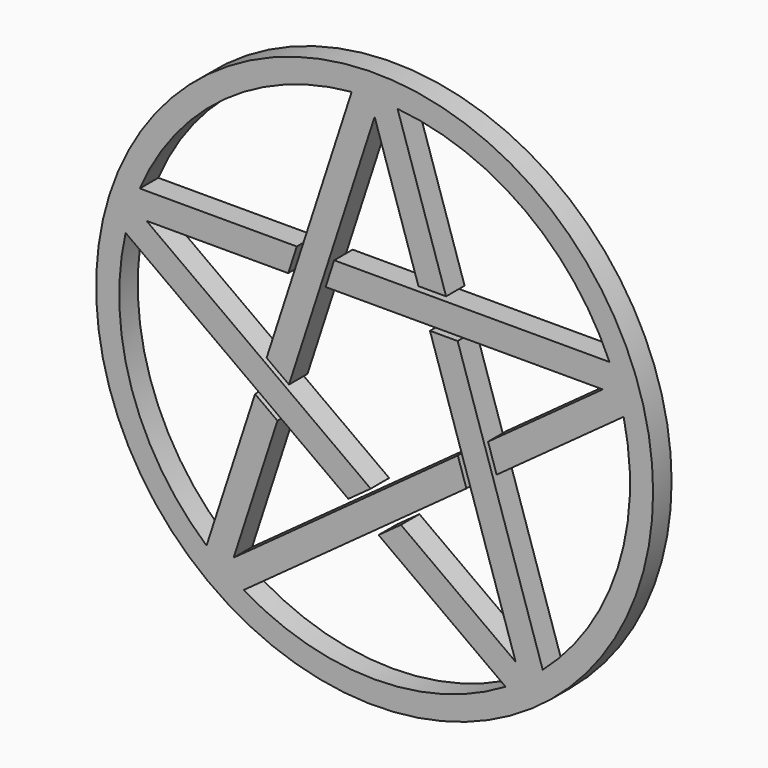
from build123d import *

# Parameters (mm, degrees)
F0_R     = 76.541025
F1_DEPTH = 6.35


with BuildPart() as f1:
    # F0 (on Front) → F1 (new body)
    with BuildSketch(Plane.XZ):
        Circle(F0_R)
        with BuildLine():
            ThreePointArc((-64.53644, 27.601229), (-41.257249, 56.785732), (-6.307472, 69.907051))
            Line((-6.307472, 69.907051), (-29.685655, -2.043597))
            Line((-29.685655, -2.043597), (-23.536186, -6.511448))
            Line((-23.536186, -6.511448), (0, 65.925484))
            Line((0, 65.925484), (12.039657, 28.871229))
            Line((12.039657, 28.871229), (19.640819, 28.871229))
            Line((19.640819, 28.871229), (6.307472, 69.907051))
            ThreePointArc((6.307472, 69.907051), (41.257249, 56.785732), (64.53644, 27.601229))
            Line((64.53644, 27.601229), (-11.116948, 27.601229))
            Line((-11.116948, 27.601229), (-13.465836, 20.372095))
            Line((-13.465836, 20.372095), (62.698861, 20.372095))
            Line((62.698861, 20.372095), (31.17863, -2.528694))
            Line((31.17863, -2.528694), (33.527518, -9.757828))
            Line((33.527518, -9.757828), (68.434673, 15.603704))
            ThreePointArc((68.434673, 15.603704), (66.755632, -21.69022), (46.193186, -52.848553))
            Line((46.193186, -52.848553), (22.815003, 19.102095))
            Line((22.815003, 19.102095), (15.213841, 19.102095))
            Line((15.213841, 19.102095), (38.750027, -53.334837))
            Line((38.750027, -53.334837), (7.229796, -30.434048))
            Line((7.229796, -30.434048), (1.080327, -34.901899))
            Line((1.080327, -34.901899), (35.987481, -60.263432))
            ThreePointArc((35.987481, -60.263432), (0, -70.191025), (-35.987481, -60.263432))
            Line((-35.987481, -60.263432), (25.217396, -15.795485))
            Line((25.217396, -15.795485), (22.868507, -8.566351))
            Line((22.868507, -8.566351), (-38.750027, -53.334837))
            Line((-38.750027, -53.334837), (-26.71037, -16.280582))
            Line((-26.71037, -16.280582), (-32.859839, -11.812731))
            Line((-32.859839, -11.812731), (-46.193186, -52.848553))
            ThreePointArc((-46.193186, -52.848553), (-66.755632, -21.69022), (-68.434673, 15.603704))
            Line((-68.434673, 15.603704), (-7.229796, -28.864242))
            Line((-7.229796, -28.864242), (-1.080327, -24.396391))
            Line((-1.080327, -24.396391), (-62.698861, 20.372095))
            Line((-62.698861, 20.372095), (-23.737712, 20.372095))
            Line((-23.737712, 20.372095), (-21.388824, 27.601229))
            Line((-21.388824, 27.601229), (-64.53644, 27.601229))
        make_face(mode=Mode.SUBTRACT)
    extrude(amount=F1_DEPTH)


solid = f1.part
